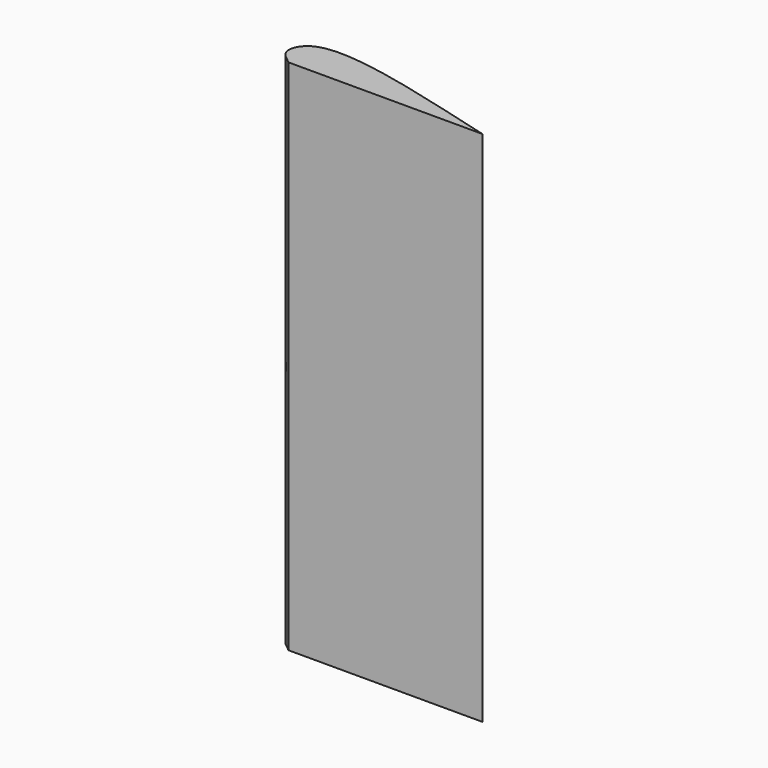
from build123d import *

# Parameters (mm, degrees)
F1_DEPTH = 101.6


with BuildPart() as f1:
    # F0 (on Top) → F1 (new body)
    with BuildSketch(Plane.XY):
        with BuildLine():
            add(Edge.make_bspline(
                [(-17.4264201114, 0), (-18.7373724035, 1.020992697), (-20.827223963, 2.5757712838), (-17.2181603648, 10.7796117361), (4.5447890889, 4.364693325), (20.6735798886, 0)],
                knots=[0, 0, 0, 0, 0.1899782576, 0.3964905932, 1, 1, 1, 1], degree=3))
            Line((-17.4264201114, 0), (20.6735798886, 0))
        make_face()
    extrude(amount=F1_DEPTH)


solid = f1.part
